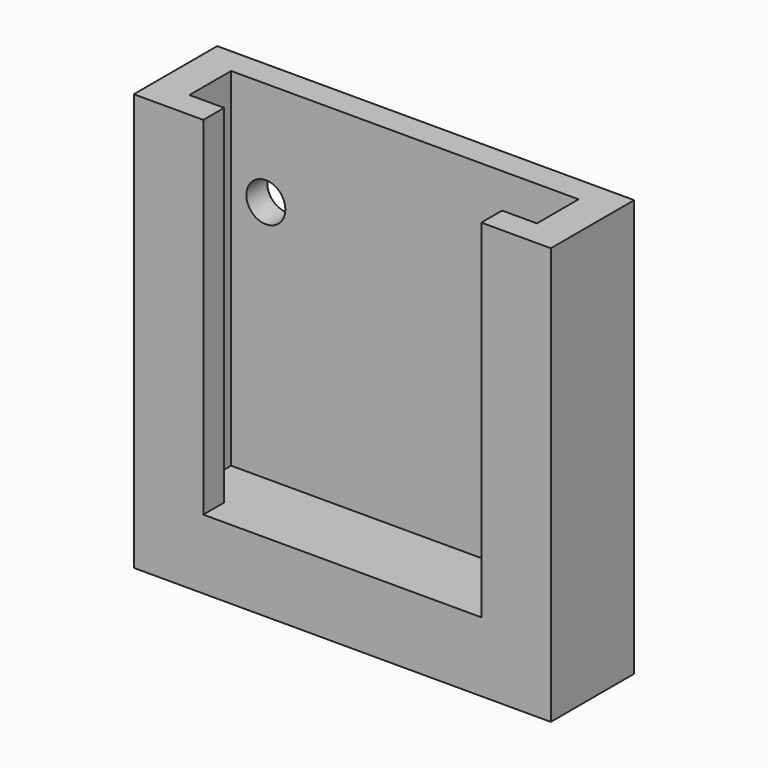
from build123d import *

# Parameters (mm, degrees)
F1_DEPTH = 19.05
F2_W     = 6.35
F2_H     = 4.7625
F2_W_2   = 50.8
F3_DEPTH = 63.5
F5_DEPTH = 10.16


with BuildPart() as f1:
    # F0 (on Front) → F1 (new body)
    with BuildSketch(Plane.XZ):
        Polygon((0, -38.1), (0, 0), (0, 38.1), (-38.1, 38.1), (-38.1, 0), (-38.1, -38.1), align=None)
        Polygon((0, 38.1), (0, 0), (0, -38.1), (38.1, -38.1), (38.1, 0), (38.1, 38.1), align=None)
    extrude(amount=F1_DEPTH)

    # F2 (on face) → F3 (cut)
    with BuildSketch(Plane.XY.offset(38.1)):
        Polygon((-25.4, -14.2875), (25.4, -14.2875), (25.4, -9.525), (25.4, -4.7625), (-25.4, -4.7625), (-25.4, -9.525), align=None)
        with Locations((28.575, -11.90625)):
            Rectangle(F2_W, F2_H)
        with Locations((28.575, -7.14375)):
            Rectangle(F2_W, F2_H)
        with Locations((-28.575, -11.90625)):
            Rectangle(F2_W, F2_H)
        with Locations((-28.575, -7.14375)):
            Rectangle(F2_W, F2_H)
        with Locations((0, -16.66875)):
            Rectangle(F2_W_2, F2_H)
    extrude(amount=-F3_DEPTH, mode=Mode.SUBTRACT)

    # F4 (on face) → F5 (cut)
    with BuildSketch(Plane(origin=(0, 0, 0), x_dir=(-1, 0, 0), z_dir=(0, 1, 0))):
        with BuildLine():
            ThreePointArc((-28.956, 19.05), (-25.4, 15.494), (-21.844, 19.05))
            Line((-21.844, 19.05), (-25.4, 19.05))
            Line((-25.4, 19.05), (-28.956, 19.05))
        make_face()
        with BuildLine():
            Line((-25.4, 19.05), (-21.844, 19.05))
            ThreePointArc((-21.844, 19.05), (-25.4, 22.606), (-28.956, 19.05))
            Line((-28.956, 19.05), (-25.4, 19.05))
        make_face()
        with BuildLine():
            ThreePointArc((28.956, 19.05), (25.4, 22.606), (21.844, 19.05))
            Line((21.844, 19.05), (25.4, 19.05))
            Line((25.4, 19.05), (28.956, 19.05))
        make_face()
        with BuildLine():
            Line((25.4, 19.05), (21.844, 19.05))
            ThreePointArc((21.844, 19.05), (25.4, 15.494), (28.956, 19.05))
            Line((28.956, 19.05), (25.4, 19.05))
        make_face()
    extrude(amount=-F5_DEPTH, mode=Mode.SUBTRACT)


solid = f1.part
